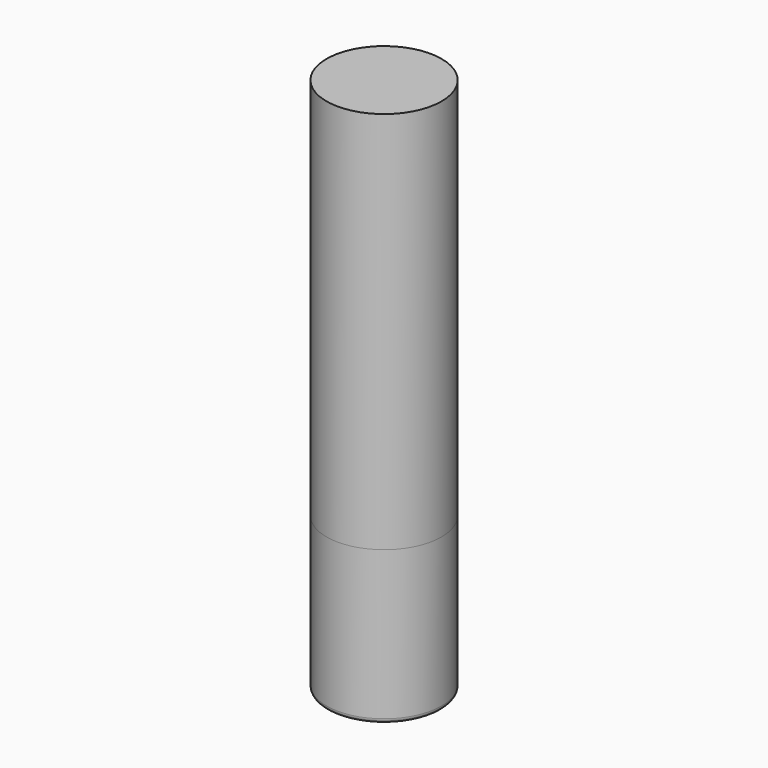
from build123d import *

# Parameters (mm, degrees)
F0_W = 9.525
F0_H = 63.5


with BuildPart() as f1:
    # F0 (on Front) → F1 (revolve)
    with BuildSketch(Plane.XZ):
        with Locations((4.7625, -31.75)):
            Rectangle(F0_W, F0_H)
    revolve(axis=Axis((0, 0, -44.45), (0, 0, 1)))


with BuildPart() as f2:
    # F0 (on Front) → F2 (revolve)
    with BuildSketch(Plane.XZ):
        with BuildLine():
            Line((9.525, -63.5), (0, -63.5))
            Line((0, -63.5), (0, -88.9))
            Line((0, -88.9), (8.763, -88.9))
            ThreePointArc((8.763, -88.9), (9.301815, -88.676815), (9.525, -88.138))
            Line((9.525, -88.138), (9.525, -63.5))
        make_face()
    revolve(axis=Axis((0, 0, -44.45), (0, 0, 1)))


solid = Compound([f1.part, f2.part])
